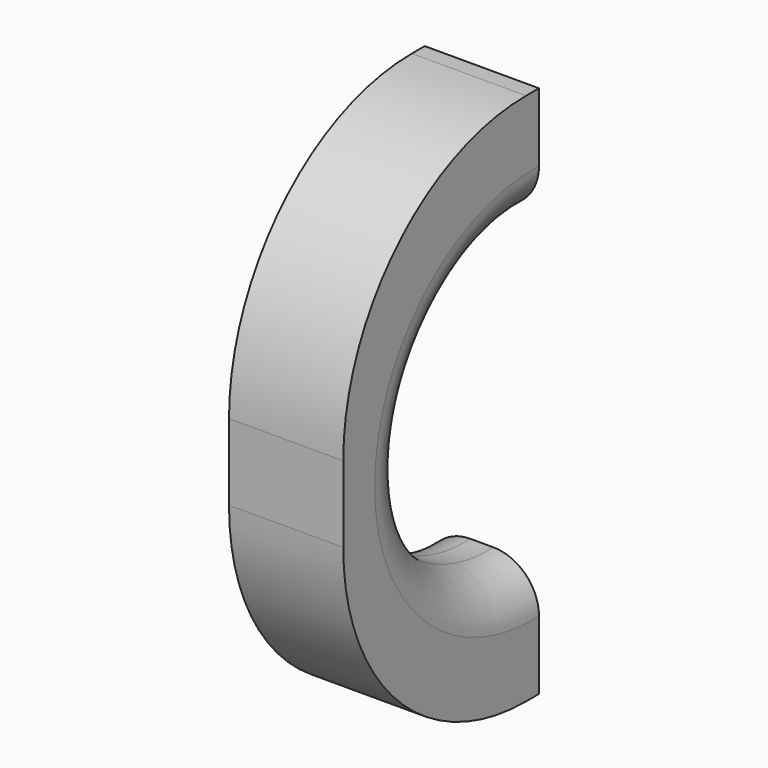
from build123d import *

# Parameters (mm, degrees)
F1_DEPTH = 3.175
F2_R     = 1.27


with BuildPart() as f1:
    # F0 (on Right) → F1 (new body)
    with BuildSketch(Plane.YZ):
        with BuildLine():
            Line((-0.448989, 0), (0, 0))
            Line((0, 0), (0, 3.175))
            ThreePointArc((0, 3.175), (-4.438789, 7.408333), (0, 11.641667))
            Line((0, 11.641667), (0, 14.816667))
            Line((0, 14.816667), (-0.448989, 14.816667))
            ThreePointArc((-0.448989, 14.816667), (-4.939117, 12.956795), (-6.798989, 8.466667))
            Line((-6.798989, 8.466667), (-6.798989, 6.35))
            ThreePointArc((-6.798989, 6.35), (-4.939117, 1.859872), (-0.448989, 0))
        make_face()
    extrude(amount=F1_DEPTH)

    # F2
    f2_edges = [f1.edges().sort_by_distance(p)[0] for p in [
        (3.175, -4.438789, 7.408333),
        (0, -4.438789, 7.408333),
    ]]
    fillet(f2_edges, radius=F2_R)


solid = f1.part
